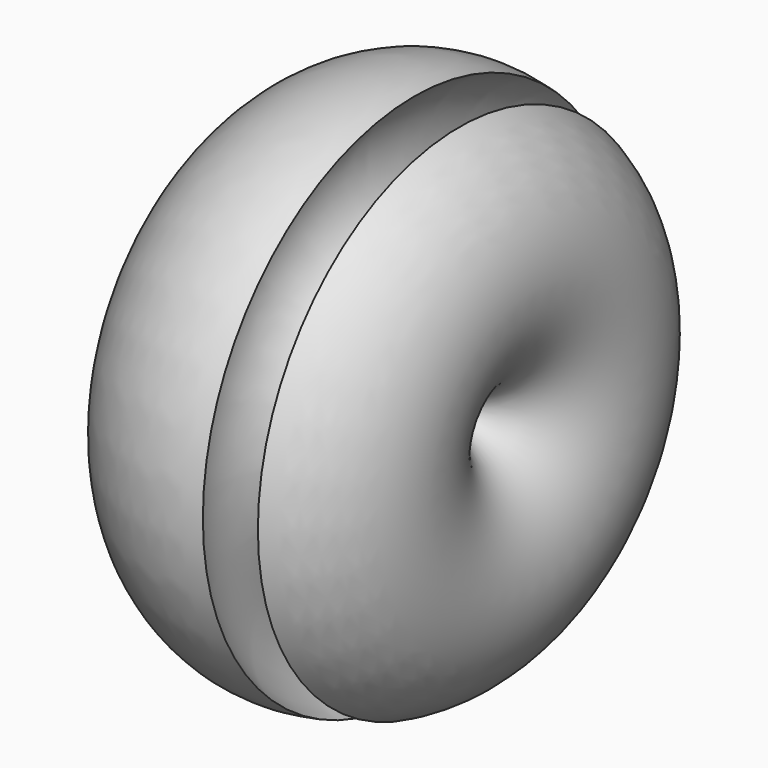
from build123d import *


with BuildPart() as f1:
    # F0 (on Top) → F1 (revolve)
    with BuildSketch(Plane.XY):
        with BuildLine():
            Line((-165.641502, -85.581206), (-88.88834, -85.581206))
            ThreePointArc((-88.88834, -85.581206), (-33.144432, -31.548219), (-70.316166, 36.607552))
            ThreePointArc((-70.316166, 36.607552), (-62.653227, 0.350148), (-92.279747, -21.911686))
            ThreePointArc((-92.279747, -21.911686), (-114.170244, 10.290886), (-92.279747, 42.493459))
            ThreePointArc((-92.279747, 42.493459), (-176.30251, 5.573775), (-165.641502, -85.581206))
        make_face()
    revolve(axis=Axis((-127.264921, -85.581206, 0), (1, 0, 0)))


solid = f1.part
